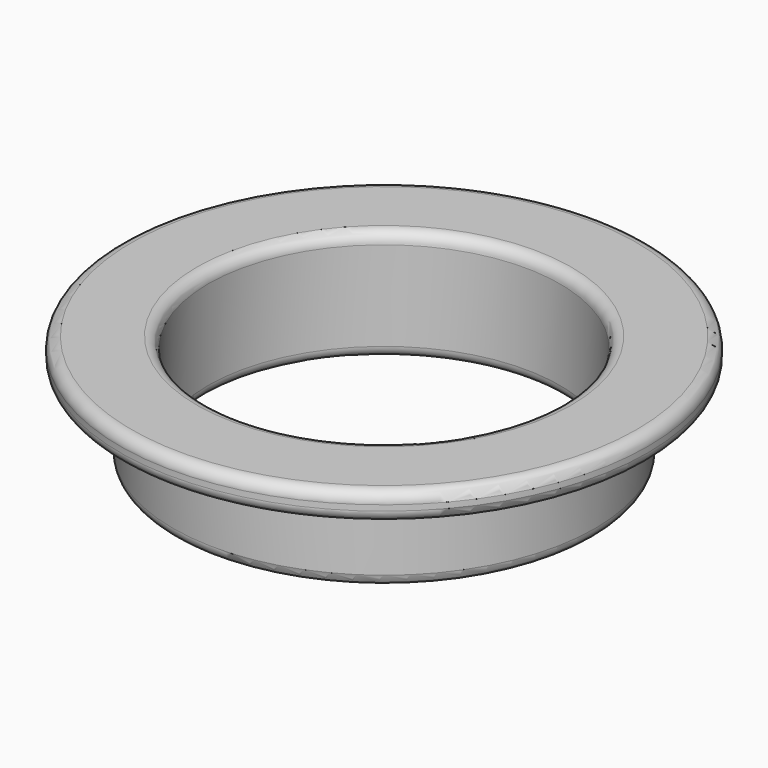
from build123d import *

# Parameters (mm, degrees)
F0_R     = 24
F0_R_2   = 20
F1_DEPTH = 12.7
F2_R     = 30
F2_R_2   = 20
F3_DEPTH = 3.175
F4_R     = 1.27
F5_R     = 0.635


with BuildPart() as f1:
    # F0 (on Top) → F1 (new body)
    with BuildSketch(Plane.XY):
        Circle(F0_R)
        Circle(F0_R_2, mode=Mode.SUBTRACT)
    extrude(amount=F1_DEPTH)

    # F2 (on face) → F3 (join)
    with BuildSketch(Plane.XY.offset(12.7)):
        Circle(F2_R)
        Circle(F2_R_2, mode=Mode.SUBTRACT)
    extrude(amount=-F3_DEPTH)

    # F4
    f4_edges = [f1.edges().sort_by_distance(p)[0] for p in [
        (-20, 0, 12.7),
        (-20, 0, 0),
        (-30, 0, 12.7),
        (-30, 0, 9.525),
        (-24, 0, 0),
    ]]
    fillet(f4_edges, radius=F4_R)

    # F5
    f5_edges = [f1.edges().sort_by_distance(p)[0] for p in [
        (-24, 0, 9.525),
    ]]
    fillet(f5_edges, radius=F5_R)


solid = f1.part
